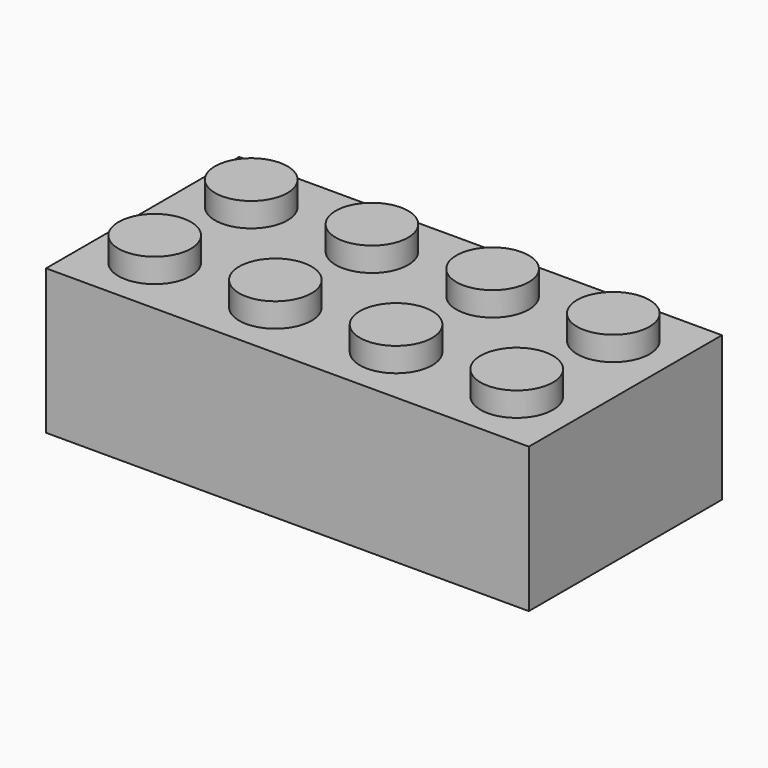
from build123d import *

# Parameters (mm, degrees)
F0_W     = 31.75
F0_H     = 15.875
F0_R     = 2.38125
F1_DEPTH = 3.175
F2_DEPTH = 4.7625
F3_T     = -1.5875
F4_R     = 3.175
F4_R_2   = 2.38125
F5_DEPTH = 1.5875
F6_DEPTH = 6.35


with BuildPart() as f1:
    # F0 (on Top) → F1 (new body)
    with BuildSketch(Plane.XY):
        Rectangle(F0_W, F0_H)
        with Locations((-11.90625, -3.96875)):
            Circle(F0_R, mode=Mode.SUBTRACT)
        with Locations((-3.96875, -3.96875)):
            Circle(F0_R, mode=Mode.SUBTRACT)
        with Locations((3.96875, -3.96875)):
            Circle(F0_R, mode=Mode.SUBTRACT)
        with Locations((11.90625, -3.96875)):
            Circle(F0_R, mode=Mode.SUBTRACT)
        with Locations((-11.90625, 3.96875)):
            Circle(F0_R, mode=Mode.SUBTRACT)
        with Locations((-3.96875, 3.96875)):
            Circle(F0_R, mode=Mode.SUBTRACT)
        with Locations((3.96875, 3.96875)):
            Circle(F0_R, mode=Mode.SUBTRACT)
        with Locations((11.90625, 3.96875)):
            Circle(F0_R, mode=Mode.SUBTRACT)
    extrude(amount=F1_DEPTH)

    # F0 (on Top) → F2 (join)
    with BuildSketch(Plane.XY):
        with Locations((-11.90625, 3.96875)):
            Circle(F0_R)
        with Locations((-3.96875, 3.96875)):
            Circle(F0_R)
        with Locations((-3.96875, -3.96875)):
            Circle(F0_R)
        with Locations((-11.90625, -3.96875)):
            Circle(F0_R)
        with Locations((3.96875, 3.96875)):
            Circle(F0_R)
        with Locations((11.90625, 3.96875)):
            Circle(F0_R)
        with Locations((11.90625, -3.96875)):
            Circle(F0_R)
        with Locations((3.96875, -3.96875)):
            Circle(F0_R)
    extrude(amount=F2_DEPTH)

    # F3
    f3_openings = [f1.faces().sort_by_distance(p)[0] for p in [
        (0, 0, 0),
    ]]
    offset(amount=F3_T, openings=f3_openings, kind=Kind.INTERSECTION)

    # F4 (on face) → F5 (join)
    with BuildSketch(Plane(origin=(0, 0, 1.5875), x_dir=(1, 0, 0), z_dir=(0, 0, -1))):
        Circle(F4_R)
        Circle(F4_R_2, mode=Mode.SUBTRACT)
    extrude(amount=F5_DEPTH)

    # F6 (add): faces of the model
    f6_faces = [f1.faces().sort_by_distance(p)[0] for p in [
        (0, 7.5825242086, 0),
        (-3.0851974388, 0, 0),
    ]]
    extrude(f6_faces, amount=F6_DEPTH)


solid = f1.part
